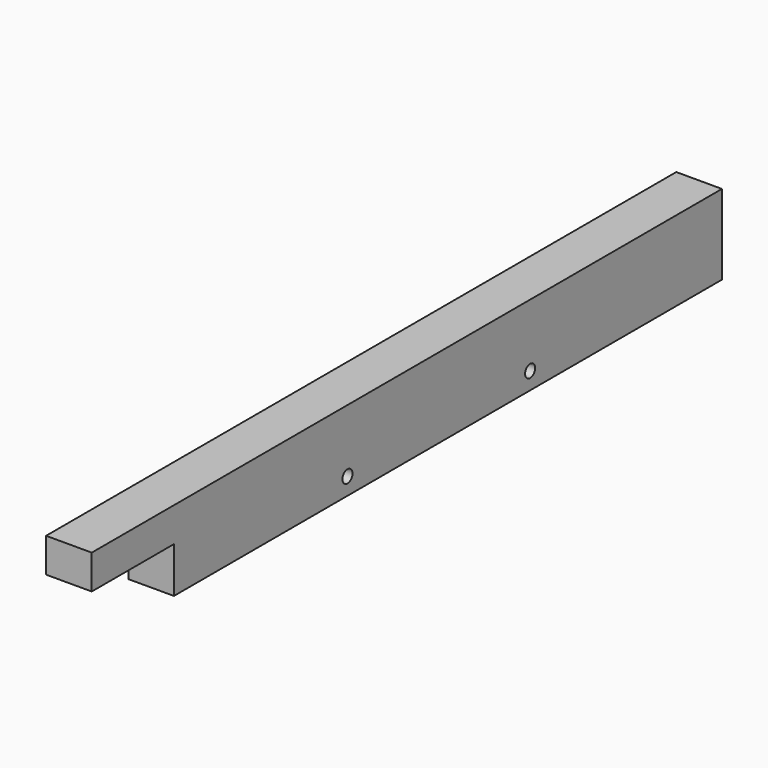
from build123d import *

# Parameters (mm, degrees)
F0_W     = 40
F0_H     = 70
F1_DEPTH = 600
F3_D     = 11
F3_DEPTH = 50
F4_W     = 40
F4_H     = 30
F5_DEPTH = 90


with BuildPart() as f1:
    # F0 (on Front) → F1 (new body)
    with BuildSketch(Plane.XZ):
        with Locations((20, 35)):
            Rectangle(F0_W, F0_H)
    extrude(amount=F1_DEPTH)

    # F3
    with Locations(Plane.YZ.offset(40)):
        with Locations((-410, 15), (-210, 15)):
            Hole(F3_D / 2, depth=F3_DEPTH)

    # F4 (on face) → F5 (join)
    with BuildSketch(Plane.XZ.offset(600)):
        with Locations((20, 55)):
            Rectangle(F4_W, F4_H)
    extrude(amount=F5_DEPTH)


solid = f1.part
